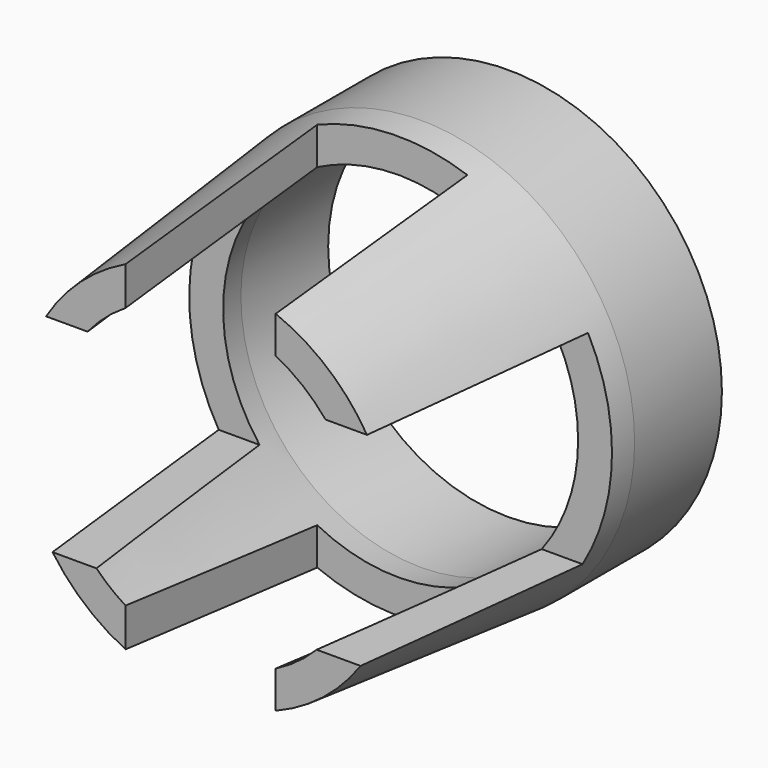
from build123d import *

# Parameters (mm, degrees)
F0_R           = 26.44775
F1_DEPTH       = 55.4101
F2_SIZE2       = 39.37
F2_SIZE        = 3.81
F3_R           = 31.4325
F4_DEPTH       = 55.4101
F5_SIZE2       = 39.37
F5_SIZE        = 3.81
F7_W           = 10.4550290853
F7_H           = 15.8277489245
F7_H_2         = 14.3756624311
F8_DEPTH       = 43.9235
F8_DEPTH_BACK  = 42.42753
F9_W           = 22.0717256889
F9_H           = 9.8741929978
F9_H_2         = 31.5537750721
F10_DEPTH      = 52.69923
F10_DEPTH_BACK = 50.37589


with BuildPart() as f1:
    # F0 (on Front) → F1 (new body)
    with BuildSketch(Plane.XZ):
        Circle(F0_R)
    extrude(amount=F1_DEPTH)

    # F2
    f2_edges = [f1.edges().sort_by_distance(p)[0] for p in [
        (-26.44775, -55.4101, 0),
    ]]
    f2_side = f1.faces().sort_by_distance((0, -55.4101, 0))[0]
    chamfer(f2_edges, length=F2_SIZE, length2=F2_SIZE2, reference=f2_side)


with BuildPart() as f4:
    # F3 (on Front) → F4 (new body)
    with BuildSketch(Plane.XZ):
        Circle(F3_R)
    extrude(amount=F4_DEPTH)

    # F5
    f5_edges = [f4.edges().sort_by_distance(p)[0] for p in [
        (-31.4325, -55.4101, 0),
    ]]
    f5_side = f4.faces().sort_by_distance((0, -55.4101, 0))[0]
    chamfer(f5_edges, length=F5_SIZE, length2=F5_SIZE2, reference=f5_side)

    # F6: cut F1
    add(f1.part, mode=Mode.SUBTRACT)

    # F7 (on Right) → F8 (cut, two sides)
    with BuildSketch(Plane.YZ) as f8_sk:
        with Locations((-24.9758986756, -7.9138744622)):
            Rectangle(F7_W, F7_H)
        with Locations((-24.9758986756, 7.1878312156)):
            Rectangle(F7_W, F7_H_2)
        Polygon((-30.2034132183, -15.8277489245), (-30.2034132183, 0), (-30.2034132183, 14.3756624311), (-65.0081411004, 14.3756624311), (-65.0081411004, -15.8277489245), align=None)
    extrude(amount=F8_DEPTH, mode=Mode.SUBTRACT)
    extrude(f8_sk.sketch, amount=-F8_DEPTH_BACK, mode=Mode.SUBTRACT)

    # F9 (on Top) → F10 (cut, two sides)
    with BuildSketch(Plane.XY) as f10_sk:
        with Locations((-0.8712508716, -25.1211086288)):
            Rectangle(F9_W, F9_H)
        with Locations((-0.8712508716, -45.8350926638)):
            Rectangle(F9_W, F9_H_2)
    extrude(amount=F10_DEPTH, mode=Mode.SUBTRACT)
    extrude(f10_sk.sketch, amount=-F10_DEPTH_BACK, mode=Mode.SUBTRACT)


solid = f4.part
